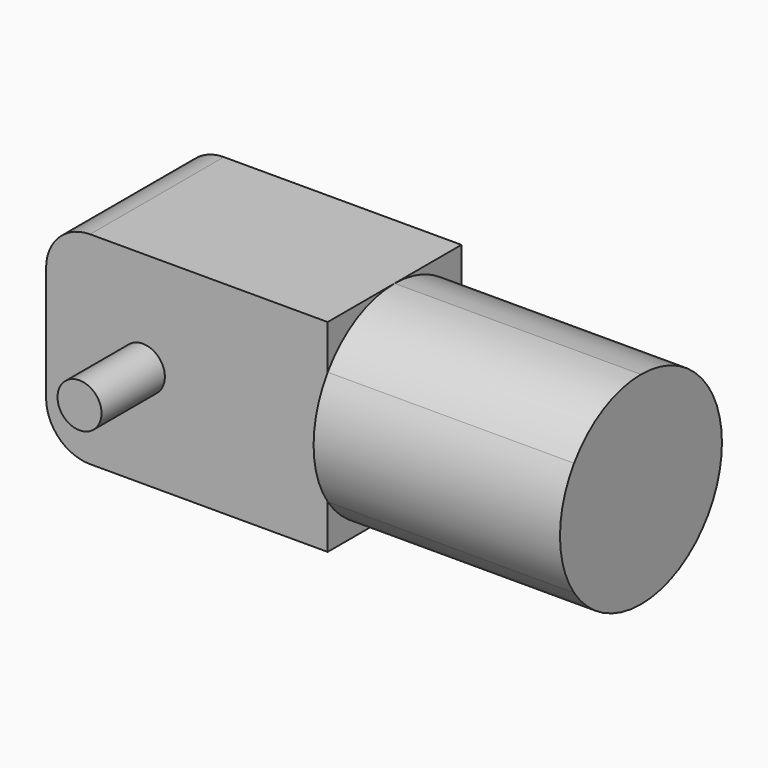
from build123d import *

# Parameters (mm, degrees)
F0_W      = 32
F0_H      = 23
F1_DEPTH  = 19
F2_R      = 5
F3_R      = 5
F4_W      = 3
F4_H      = 5
F5_DEPTH  = 5
F7_DEPTH  = 28
F8_R      = 2.5
F9_DEPTH  = 9
F10_R     = 2.5
F11_DEPTH = 9


with BuildPart() as f1:
    # F0 (on Front) → F1 (new body)
    with BuildSketch(Plane.XZ):
        with Locations((16, 11.5)):
            Rectangle(F0_W, F0_H)
    extrude(amount=-F1_DEPTH)

    # F2
    f2_edges = [f1.edges().sort_by_distance(p)[0] for p in [
        (0, 9.5, 23),
    ]]
    fillet(f2_edges, radius=F2_R)

    # F3
    f3_edges = [f1.edges().sort_by_distance(p)[0] for p in [
        (0, 9.5, 0),
    ]]
    fillet(f3_edges, radius=F3_R)

    # F4 (on face) → F5 (join)
    with BuildSketch(Plane(origin=(0, 0, 0), x_dir=(0, -1, 0), z_dir=(-1, 0, 0))):
        with Locations((-9.5, 11.5)):
            Rectangle(F4_W, F4_H)
    extrude(amount=F5_DEPTH)

    # F6 (on face) → F7 (join)
    with BuildSketch(Plane.YZ.offset(32)):
        with BuildLine():
            Line((19, 5.019259), (19, 17.980741))
            ThreePointArc((19, 17.980741), (14.872219, 21.668051), (9.5, 23))
            ThreePointArc((9.5, 23), (4.127781, 21.668051), (0, 17.980741))
            Line((0, 17.980741), (0, 5.019259))
            ThreePointArc((0, 5.019259), (4.127781, 1.331949), (9.5, 0))
            ThreePointArc((9.5, 0), (14.872219, 1.331949), (19, 5.019259))
        make_face()
        with BuildLine():
            ThreePointArc((19, 5.019259), (20.48863, 8.108835), (21, 11.5))
            ThreePointArc((21, 11.5), (20.48863, 14.891165), (19, 17.980741))
            Line((19, 17.980741), (19, 5.019259))
        make_face()
        with BuildLine():
            Line((0, 5.019259), (0, 17.980741))
            ThreePointArc((0, 17.980741), (-2, 11.5), (0, 5.019259))
        make_face()
    extrude(amount=F7_DEPTH)

    # F8 (on face) → F9 (join)
    with BuildSketch(Plane.XZ):
        with Locations((11, 11.5)):
            Circle(F8_R)
    extrude(amount=F9_DEPTH)

    # F10 (on face) → F11 (join)
    with BuildSketch(Plane(origin=(0, 19, 0), x_dir=(-1, 0, 0), z_dir=(0, 1, 0))):
        with Locations((-11, 11.5)):
            Circle(F10_R)
    extrude(amount=F11_DEPTH)


solid = f1.part
